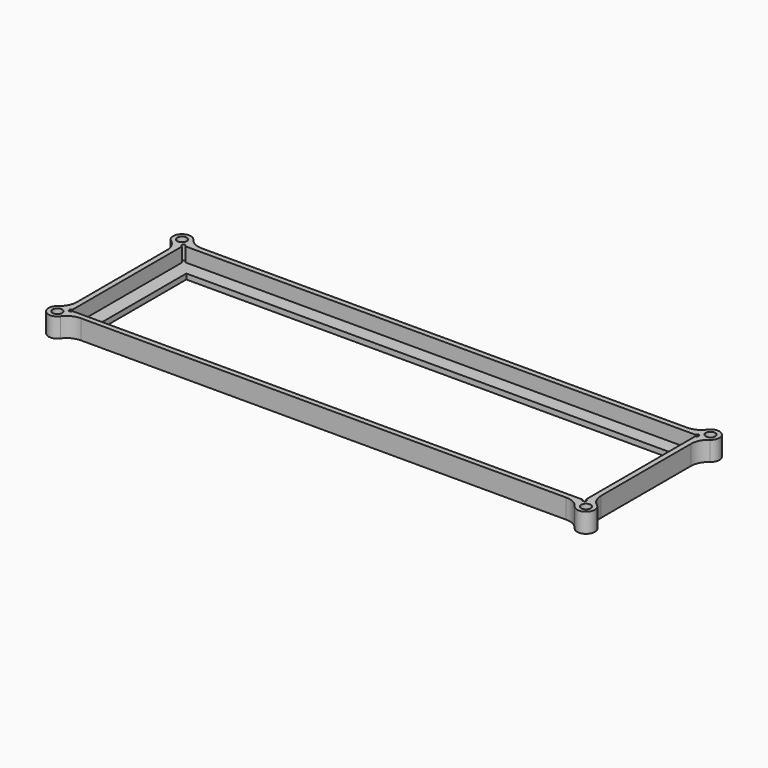
from build123d import *

# Parameters (mm, degrees)
F0_W      = 234.762548
F0_H      = 67.762526
F0_W_2    = 230.000048
F0_H_2    = 63.000026
F1_DEPTH  = 6.35
F2_W      = 234.762548
F2_H      = 67.762526
F2_W_2    = 217.300048
F2_H_2    = 50.300026
F3_DEPTH  = 2.38125
F4_R      = 3.96875
F5_DEPTH  = 8.73125
F6_R      = 7.9375
F7_R      = 2.15265
F8_DEPTH  = 8.73125
F9_R      = 0.79375
F10_DEPTH = 6.35


with BuildPart() as f1:
    # F0 (on Top) → F1 (new body)
    with BuildSketch(Plane.XY):
        Rectangle(F0_W, F0_H)
        Rectangle(F0_W_2, F0_H_2, mode=Mode.SUBTRACT)
    extrude(amount=F1_DEPTH)

    # F2 (on face) → F3 (join)
    with BuildSketch(Plane(origin=(0, 0, 0), x_dir=(1, 0, 0), z_dir=(0, 0, -1))):
        Rectangle(F2_W, F2_H)
        Rectangle(F2_W_2, F2_H_2, mode=Mode.SUBTRACT)
    extrude(amount=F3_DEPTH)

    # F4 (on face) → F5 (join, through all)
    with BuildSketch(Plane.XY.offset(6.35)):
        with Locations((118.36762, 34.867609)):
            Circle(F4_R)
        with Locations((118.36762, -34.867609)):
            Circle(F4_R)
        with Locations((-118.36762, -34.867609)):
            Circle(F4_R)
        with Locations((-118.36762, 34.867609)):
            Circle(F4_R)
    extrude(amount=-F5_DEPTH)

    # F6
    f6_edges = [f1.edges().sort_by_distance(p)[0] for p in [
        (114.523391, 33.881263, 1.984375),
        (117.381274, 31.02338, 1.984375),
        (117.381274, -31.02338, 1.984375),
        (114.523391, -33.881263, 1.984375),
        (-117.381274, -31.02338, 1.984375),
        (-114.523391, -33.881263, 1.984375),
        (-114.523391, 33.881263, 1.984375),
        (-117.381274, 31.02338, 1.984375),
    ]]
    fillet(f6_edges, radius=F6_R)

    # F7 (on face) → F8 (cut, through all)
    with BuildSketch(Plane.XY.offset(6.35)):
        with Locations((118.36762, 34.867609)):
            Circle(F7_R)
        with Locations((118.36762, -34.867609)):
            Circle(F7_R)
        with Locations((-118.36762, 34.867609)):
            Circle(F7_R)
        with Locations((-118.36762, -34.867609)):
            Circle(F7_R)
    extrude(amount=-F8_DEPTH, mode=Mode.SUBTRACT)

    # F9 (on face) → F10 (cut, through all)
    with BuildSketch(Plane.XY.offset(6.35)):
        with Locations((-115.000024, 31.500013)):
            Circle(F9_R)
        with Locations((-115.000024, -31.500013)):
            Circle(F9_R)
        with Locations((115.000024, -31.500013)):
            Circle(F9_R)
        with Locations((115.000024, 31.500013)):
            Circle(F9_R)
    extrude(amount=-F10_DEPTH, mode=Mode.SUBTRACT)


solid = f1.part
